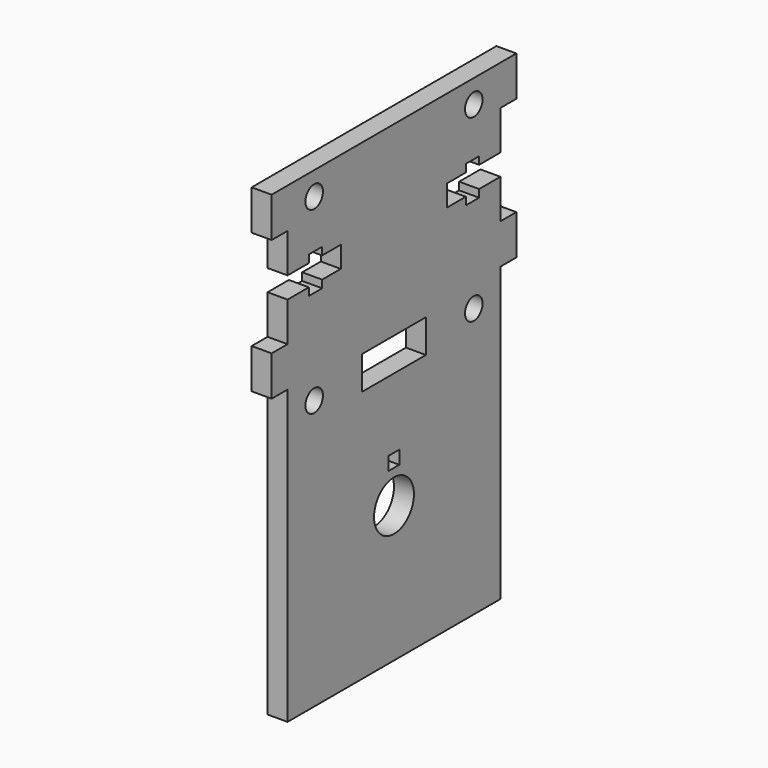
from build123d import *

# Parameters (mm, degrees)
SKETCH024_W                = 40
SKETCH024_H                = 27
SKETCH024_R                = 1.9
PAD010_DEPTH               = 3
SKETCH025_W                = 3
SKETCH025_H                = 6
PAD011_DEPTH               = 3
SKETCH025_MIRRORED003_2_W  = 3
SKETCH025_MIRRORED003_2_H  = 6
PAD011_MIRRORED003_2_DEPTH = 3
POCKET014_DEPTH            = 109.846683
SKETCH027_R                = 4.5
SKETCH027_W                = 40
SKETCH027_H                = 50
PAD012_DEPTH               = 3
SKETCH028_R                = 1.65
SKETCH028_W                = 12
SKETCH028_H                = 5
POCKET015_DEPTH            = 3.001
SKETCH029_R                = 3.75
SKETCH029_W                = 2
SKETCH029_H                = 2
POCKET016_DEPTH            = 3.001


with BuildPart() as part:
    # Sketch024 → Pad010 (new body)
    with BuildSketch(Plane.YZ):
        Rectangle(SKETCH024_W, SKETCH024_H)
        with Locations((0, 8.5)):
            Circle(SKETCH024_R, mode=Mode.SUBTRACT)
    extrude(amount=PAD010_DEPTH)

    # Sketch025 (on Face7 of Pad010) → Pad011 (join)
    with BuildSketch(Plane.YZ.offset(3)):
        with Locations((-21.5, 10.5)):
            Rectangle(SKETCH025_W, SKETCH025_H)
    pad011 = extrude(amount=-PAD011_DEPTH)

    # Sketch025 Mirrored003 2 → Pad011 Mirrored003 2 (add)
    with BuildSketch(Plane(origin=(3, 0, 0), x_dir=(0, -1, 0), z_dir=(-1, 0, 0))):
        with Locations((-21.5, 10.5)):
            Rectangle(SKETCH025_MIRRORED003_2_W, SKETCH025_MIRRORED003_2_H)
    pad011_mirrored003_2 = extrude(amount=PAD011_MIRRORED003_2_DEPTH)

    # Mirrored005: Pad011, Pad011 Mirrored003 2 across Sketch025 H_Axis
    add(pad011.mirror(Plane(origin=(3, 0, 0), x_dir=(1, 0, 0), z_dir=(0, 0, 1))))
    add(pad011_mirrored003_2.mirror(Plane(origin=(3, 0, 0), x_dir=(1, 0, 0), z_dir=(0, 0, 1))))

    # Sketch026 (on Face12 of MultiTransform001) → Pocket014 (cut, through all)
    with BuildSketch(Plane.YZ.offset(3)):
        Polygon((-20, 1.6), (-16, 1.6), (-16, 2.75), (-13.5, 2.75), (-13.5, 1.6), (-10, 1.6), (-10, -1.6), (-13.5, -1.6), (-13.5, -2.75), (-16, -2.75), (-16, -1.6), (-20, -1.6), align=None)
    pocket014 = extrude(amount=-POCKET014_DEPTH, mode=Mode.SUBTRACT)

    # Mirrored004: Pocket014 across Sketch026 V_Axis
    add(pocket014.mirror(Plane(origin=(3, 0, 0), x_dir=(1, 0, 0), z_dir=(0, 1, 0))), mode=Mode.SUBTRACT)

    # Sketch027 (on Face5 of Mirrored004) → Pad012 (join)
    with BuildSketch(Plane(origin=(0, 0, 0), x_dir=(0, 1, 0), z_dir=(-1, 0, 0))):
        with Locations((0, -8.5)):
            Circle(SKETCH027_R)
        with Locations((0, 32.5)):
            Rectangle(SKETCH027_W, SKETCH027_H)
    extrude(amount=-PAD012_DEPTH)

    # Sketch028 (on Face42 of Pad012) → Pocket015 (cut, through all)
    with BuildSketch(Plane(origin=(0, 0, 0), x_dir=(0, 1, 0), z_dir=(-1, 0, 0))):
        with Locations((-15, 17)):
            Circle(SKETCH028_R)
        with Locations((15, 17)):
            Circle(SKETCH028_R)
        with Locations((15, -10)):
            Circle(SKETCH028_R)
        with Locations((-15, -10)):
            Circle(SKETCH028_R)
        with Locations((0, 17)):
            Rectangle(SKETCH028_W, SKETCH028_H)
    extrude(amount=-POCKET015_DEPTH, mode=Mode.SUBTRACT)

    # Sketch029 (on Face2 of Pocket015) → Pocket016 (cut, through all)
    with BuildSketch(Plane(origin=(0, 0, 0), x_dir=(0, 1, 0), z_dir=(-1, 0, 0))):
        with Locations((0, 37)):
            Circle(SKETCH029_R)
        with Locations((0, 31)):
            Rectangle(SKETCH029_W, SKETCH029_H)
    extrude(amount=-POCKET016_DEPTH, mode=Mode.SUBTRACT)


with BuildPart() as part_1:
    # Body006 placement: moved
    add(part.part.moved(Location((-14.7217, -14.6897, -20))))


solid = part_1.part
